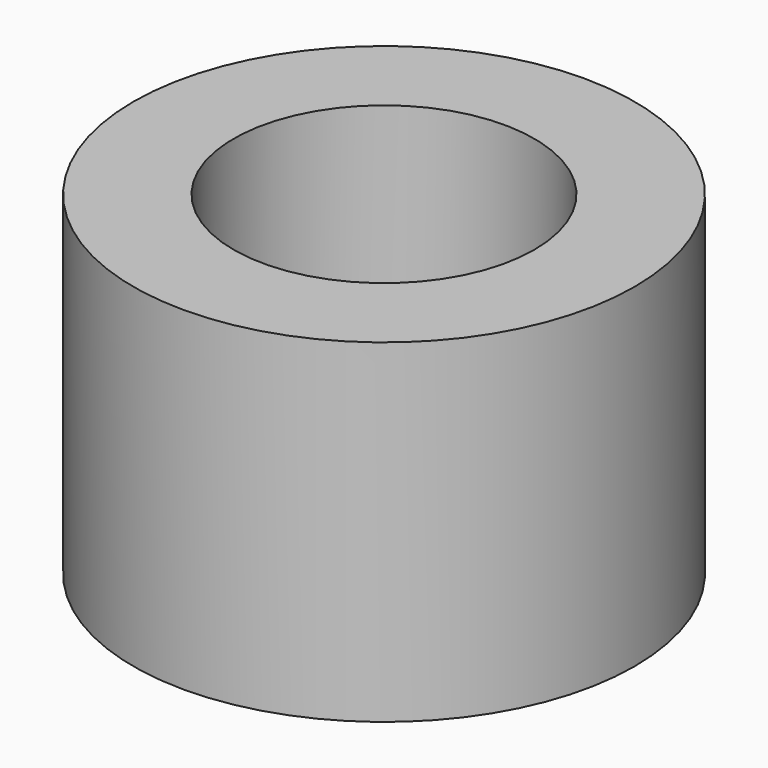
from build123d import *

# Parameters (mm, degrees)
SKETCH_R   = 3.75
SKETCH_R_2 = 2.25
PAD_DEPTH  = 5


with BuildPart() as part:
    # Sketch → Pad (new body)
    with BuildSketch(Plane.XY):
        Circle(SKETCH_R)
        Circle(SKETCH_R_2, mode=Mode.SUBTRACT)
    extrude(amount=PAD_DEPTH)


solid = part.part
